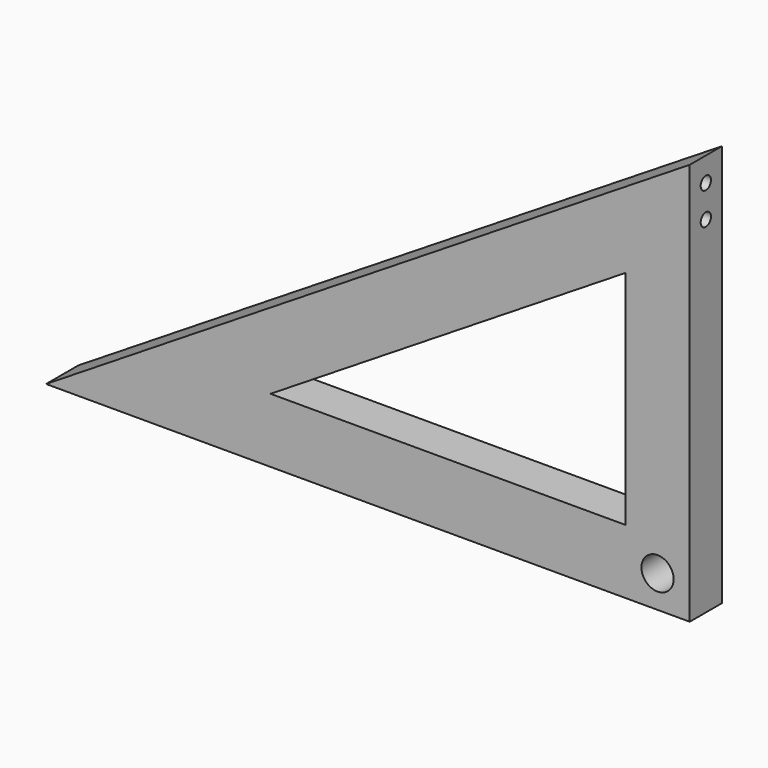
from build123d import *

# Parameters (mm, degrees)
F1_DEPTH = 25
F2_R     = 4
F3_DEPTH = 10
F4_R     = 10
F5_DEPTH = 25


with BuildPart() as f1:
    # F0 (on Front) → F1 (new body)
    with BuildSketch(Plane.XZ):
        Polygon((-400, 0), (0, 0), (0, 250), align=None)
        Polygon((-260.528151, 40), (-40, 177.830094), (-40, 40), align=None, mode=Mode.SUBTRACT)
    extrude(amount=F1_DEPTH)

    # F2 (on Right) → F3 (cut)
    with BuildSketch(Plane.YZ):
        with Locations((-12.5, 235)):
            Circle(F2_R)
        with Locations((-12.5, 215)):
            Circle(F2_R)
    extrude(amount=-F3_DEPTH, mode=Mode.SUBTRACT)

    # F4 (on face) → F5 (cut, through all)
    with BuildSketch(Plane.XZ.offset(25)):
        with Locations((-20, 20)):
            Circle(F4_R)
    extrude(amount=-F5_DEPTH, mode=Mode.SUBTRACT)


solid = f1.part
